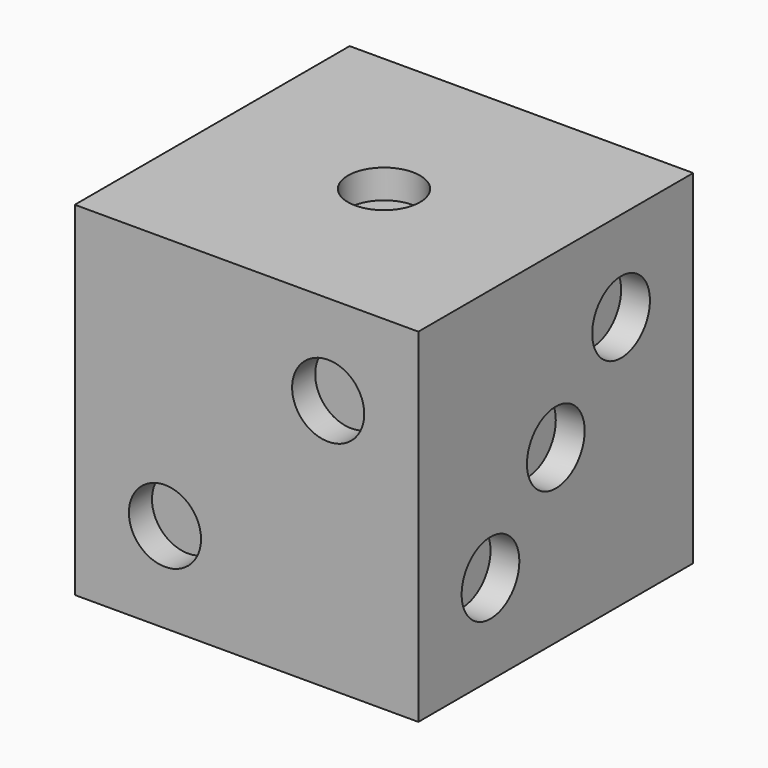
from build123d import *

# Parameters (mm, degrees)
F0_W      = 19.05
F0_H      = 19.05
F1_DEPTH  = 9.525
F2_R      = 2
F3_DEPTH  = 1.6
F4_R      = 2
F5_DEPTH  = 1.6
F6_R      = 2
F7_DEPTH  = 1.6
F8_R      = 2
F9_DEPTH  = 1.6
F10_R     = 2
F11_DEPTH = 1.6
F12_R     = 2
F13_DEPTH = 1.6


with BuildPart() as f1:
    # F0 (on Top) → F1 (new body, symmetric)
    with BuildSketch(Plane.XY):
        Rectangle(F0_W, F0_H)
    extrude(amount=F1_DEPTH, both=True)

    # F2 (on face) → F3 (cut)
    with BuildSketch(Plane.XY.offset(9.525)):
        Circle(F2_R)
    extrude(amount=-F3_DEPTH, mode=Mode.SUBTRACT)

    # F4 (on face) → F5 (cut)
    with BuildSketch(Plane.XZ.offset(9.525)):
        with Locations((-4.525, -4.525)):
            Circle(F4_R)
        with Locations((4.525, 4.525)):
            Circle(F4_R)
    extrude(amount=-F5_DEPTH, mode=Mode.SUBTRACT)

    # F6 (on face) → F7 (cut)
    with BuildSketch(Plane(origin=(0, 0, -9.525), x_dir=(1, 0, 0), z_dir=(0, 0, -1))):
        with Locations((-4.525, -4.525)):
            Circle(F6_R)
        with Locations((-4.525, 4.525)):
            Circle(F6_R)
        with Locations((4.525, -4.525)):
            Circle(F6_R)
        with Locations((4.525, 4.525)):
            Circle(F6_R)
        with Locations((-4.525, 0)):
            Circle(F6_R)
        with Locations((4.525, 0)):
            Circle(F6_R)
    extrude(amount=-F7_DEPTH, mode=Mode.SUBTRACT)

    # F8 (on face) → F9 (cut)
    with BuildSketch(Plane(origin=(0, 9.525, 0), x_dir=(-1, 0, 0), z_dir=(0, 1, 0))):
        with Locations((-4.525, -4.525)):
            Circle(F8_R)
        Circle(F8_R)
        with Locations((-4.525, 4.525)):
            Circle(F8_R)
        with Locations((4.525, -4.525)):
            Circle(F8_R)
        with Locations((4.525, 4.525)):
            Circle(F8_R)
    extrude(amount=-F9_DEPTH, mode=Mode.SUBTRACT)

    # F10 (on face) → F11 (cut)
    with BuildSketch(Plane.YZ.offset(9.525)):
        with Locations((-4.525, -4.525)):
            Circle(F10_R)
        Circle(F10_R)
        with Locations((4.525, 4.525)):
            Circle(F10_R)
    extrude(amount=-F11_DEPTH, mode=Mode.SUBTRACT)

    # F12 (on face) → F13 (cut)
    with BuildSketch(Plane(origin=(-9.525, 0, 0), x_dir=(0, -1, 0), z_dir=(-1, 0, 0))):
        with Locations((-4.525, -4.525)):
            Circle(F12_R)
        with Locations((-4.525, 4.525)):
            Circle(F12_R)
        with Locations((4.525, -4.525)):
            Circle(F12_R)
        with Locations((4.525, 4.525)):
            Circle(F12_R)
    extrude(amount=-F13_DEPTH, mode=Mode.SUBTRACT)


solid = f1.part
